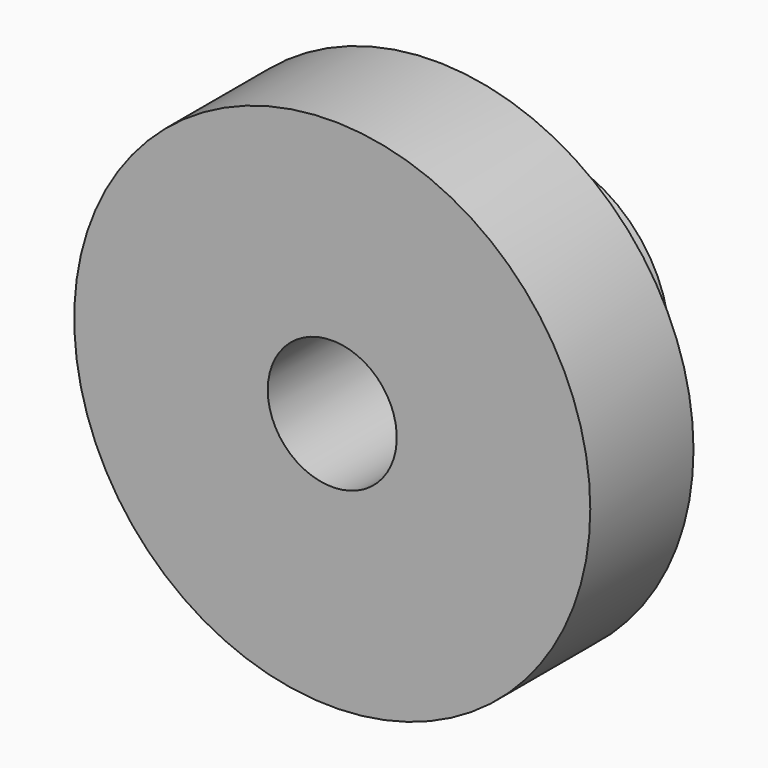
from build123d import *

# Parameters (mm, degrees)
F0_R     = 38.1
F1_DEPTH = 19.05
F2_R     = 19.336038
F3_DEPTH = 19.05
F4_R     = 9.523462
F5_DEPTH = 38.101


with BuildPart() as f1:
    # F0 (on Front) → F1 (new body)
    with BuildSketch(Plane.XZ):
        Circle(F0_R)
    extrude(amount=F1_DEPTH)

    # F2 (on face) → F3 (join)
    with BuildSketch(Plane(origin=(0, 0, 0), x_dir=(-1, 0, 0), z_dir=(0, 1, 0))):
        Circle(F2_R)
    extrude(amount=F3_DEPTH)

    # F4 (on face) → F5 (cut, through all)
    with BuildSketch(Plane(origin=(0, 19.05, 0), x_dir=(-1, 0, 0), z_dir=(0, 1, 0))):
        Circle(F4_R)
    extrude(amount=-F5_DEPTH, mode=Mode.SUBTRACT)


solid = f1.part
